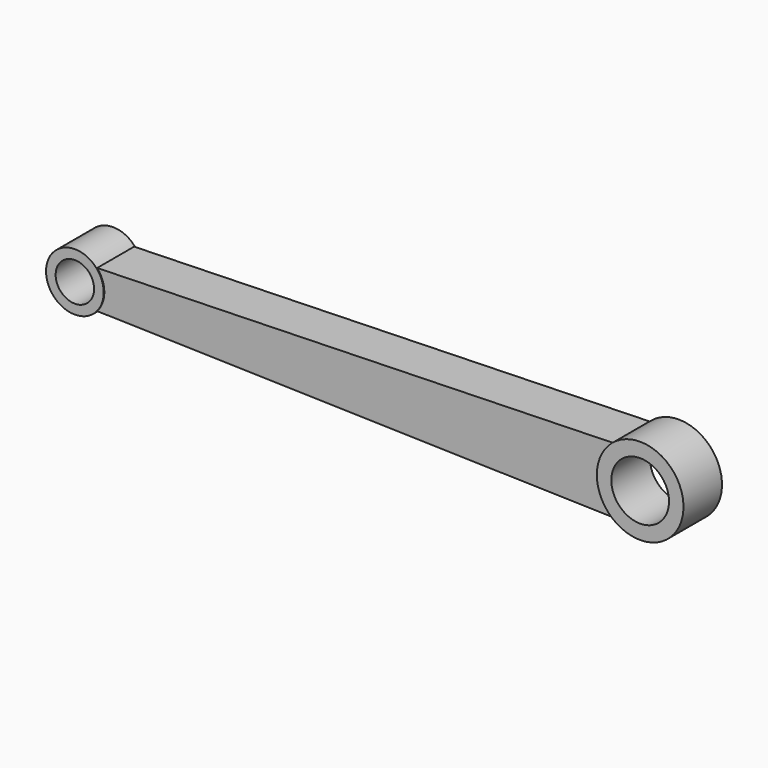
from build123d import *

# Parameters (mm, degrees)
F0_R     = 3.175
F0_R_2   = 4.7625
F1_DEPTH = 3.81
F2_R     = 4.7625
F3_DEPTH = 3.9751
F4_R     = 3.175
F5_DEPTH = 3.937


with BuildPart() as f1:
    # F0 (on Front) → F1 (new body, symmetric)
    with BuildSketch(Plane.XZ):
        with BuildLine():
            Line((-4.67479, 5.4102), (-89.762079, 3.137528))
            ThreePointArc((-89.762079, 3.137528), (-98.1075, 0), (-89.762079, -3.137528))
            Line((-89.762079, -3.137528), (-4.67479, -5.4102))
            ThreePointArc((-4.67479, -5.4102), (7.1501, 0), (-4.67479, 5.4102))
        make_face()
        with Locations((-93.345, 0)):
            Circle(F0_R, mode=Mode.SUBTRACT)
        Circle(F0_R_2, mode=Mode.SUBTRACT)
    extrude(amount=F1_DEPTH, both=True)

    # F2 (on Front) → F3 (join, symmetric)
    with BuildSketch(Plane.XZ):
        with BuildLine():
            ThreePointArc((-4.67479, 5.4102), (-7.1501, 0), (-4.67479, -5.4102))
            ThreePointArc((-4.67479, -5.4102), (7.1501, 0), (-4.67479, 5.4102))
        make_face()
        Circle(F2_R, mode=Mode.SUBTRACT)
    extrude(amount=F3_DEPTH, both=True)

    # F4 (on Front) → F5 (join, symmetric)
    with BuildSketch(Plane.XZ):
        with BuildLine():
            ThreePointArc((-89.762079, -3.137528), (-88.5825, 0), (-89.762079, 3.137528))
            ThreePointArc((-89.762079, 3.137528), (-98.1075, 0), (-89.762079, -3.137528))
        make_face()
        with Locations((-93.345, 0)):
            Circle(F4_R, mode=Mode.SUBTRACT)
    extrude(amount=F5_DEPTH, both=True)


solid = f1.part
